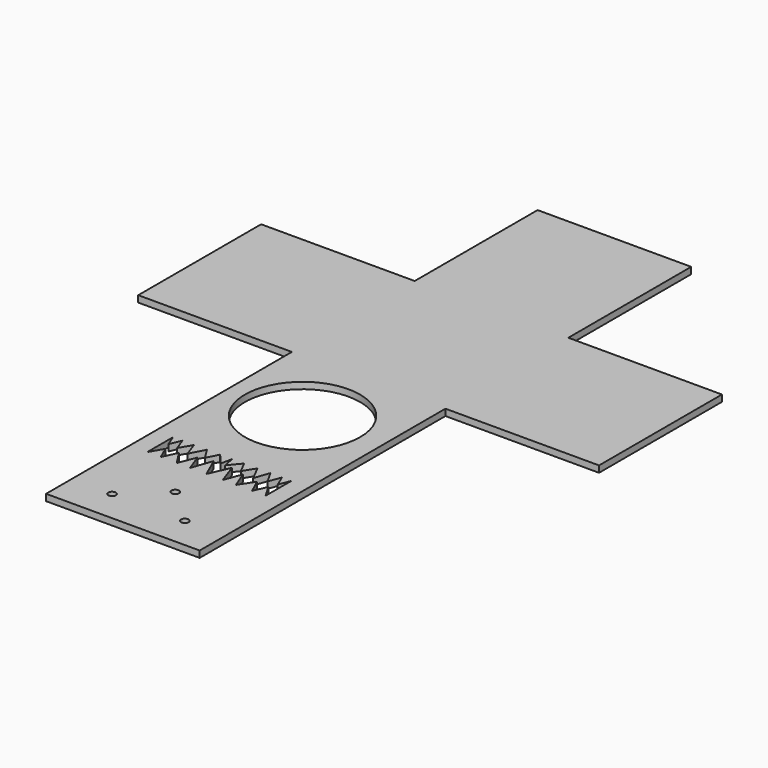
from build123d import *

# Parameters (mm, degrees)
F0_W     = 101.6
F0_H     = 101.6
F0_R     = 38.1
F0_R_2   = 2.5019
F1_DEPTH = 4.318
F2_DEPTH = 4.318


with BuildPart() as f1:
    # F0 (on Top) → F1 (new body)
    with BuildSketch(Plane.XY):
        with Locations((-104.021908, -24.545676)):
            Rectangle(F0_W, F0_H)
        with Locations((-2.421908, -24.545676)):
            Rectangle(F0_W, F0_H)
        with Locations((-2.421908, 77.054324)):
            Rectangle(F0_W, F0_H)
        with Locations((99.178092, -24.545676)):
            Rectangle(F0_W, F0_H)
        with Locations((-2.421908, -126.145676)):
            Rectangle(F0_W, F0_H)
        with Locations((-4.234652, -127.733991)):
            Circle(F0_R, mode=Mode.SUBTRACT)
        with Locations((-2.421908, -227.745676)):
            Rectangle(F0_W, F0_H)
        with Locations((-26.502896, -257.383049)):
            Circle(F0_R_2, mode=Mode.SUBTRACT)
        with Locations((21.65908, -257.383049)):
            Circle(F0_R_2, mode=Mode.SUBTRACT)
        with Locations((-2.421908, -235.197216)):
            Circle(F0_R_2, mode=Mode.SUBTRACT)
        Polygon((-41.561957, -209.521994), (-41.561957, -188.174039), (-38.587328, -195.748523), (-35.364017, -188.174039), (-32.320578, -196.259379), (-27.629388, -188.174039), (-24.196096, -197.991371), (-19.147361, -188.174039), (-14.316184, -195.874706), (-10.345475, -188.174039), (-3.992576, -195.874706), (-2.421908, -188.174039), (-0.85124, -195.874706), (5.501659, -188.174039), (9.472368, -195.874706), (14.303545, -188.174039), (19.35228, -197.991371), (22.785572, -188.174039), (27.476761, -196.259379), (30.520201, -188.174039), (33.743512, -195.748523), (36.718141, -188.174039), (36.718141, -209.521994), (31.677574, -200.754404), (27.82803, -209.521994), (23.414299, -199.966282), (17.148117, -209.521994), (12.626316, -198.055878), (8.395368, -209.521994), (3.620354, -195.874706), (-2.421908, -209.521994), (-8.464171, -195.874706), (-13.239184, -209.521994), (-17.470133, -198.055878), (-21.991933, -209.521994), (-28.258115, -199.966282), (-32.671846, -209.521994), (-36.52139, -200.754404), align=None, mode=Mode.SUBTRACT)
    extrude(amount=F1_DEPTH)

    # F0 (on Top) → F2 (join)
    with BuildSketch(Plane.XY):
        with Locations((-2.421908, 77.054324)):
            Rectangle(F0_W, F0_H)
        with Locations((-104.021908, -24.545676)):
            Rectangle(F0_W, F0_H)
        with Locations((99.178092, -24.545676)):
            Rectangle(F0_W, F0_H)
        with Locations((-2.421908, -126.145676)):
            Rectangle(F0_W, F0_H)
        with Locations((-4.234652, -127.733991)):
            Circle(F0_R, mode=Mode.SUBTRACT)
        with Locations((-2.421908, -227.745676)):
            Rectangle(F0_W, F0_H)
        with Locations((-26.502896, -257.383049)):
            Circle(F0_R_2, mode=Mode.SUBTRACT)
        with Locations((21.65908, -257.383049)):
            Circle(F0_R_2, mode=Mode.SUBTRACT)
        with Locations((-2.421908, -235.197216)):
            Circle(F0_R_2, mode=Mode.SUBTRACT)
        Polygon((-41.561957, -209.521994), (-41.561957, -188.174039), (-38.587328, -195.748523), (-35.364017, -188.174039), (-32.320578, -196.259379), (-27.629388, -188.174039), (-24.196096, -197.991371), (-19.147361, -188.174039), (-14.316184, -195.874706), (-10.345475, -188.174039), (-3.992576, -195.874706), (-2.421908, -188.174039), (-0.85124, -195.874706), (5.501659, -188.174039), (9.472368, -195.874706), (14.303545, -188.174039), (19.35228, -197.991371), (22.785572, -188.174039), (27.476761, -196.259379), (30.520201, -188.174039), (33.743512, -195.748523), (36.718141, -188.174039), (36.718141, -209.521994), (31.677574, -200.754404), (27.82803, -209.521994), (23.414299, -199.966282), (17.148117, -209.521994), (12.626316, -198.055878), (8.395368, -209.521994), (3.620354, -195.874706), (-2.421908, -209.521994), (-8.464171, -195.874706), (-13.239184, -209.521994), (-17.470133, -198.055878), (-21.991933, -209.521994), (-28.258115, -199.966282), (-32.671846, -209.521994), (-36.52139, -200.754404), align=None, mode=Mode.SUBTRACT)
    extrude(amount=F2_DEPTH)


solid = f1.part
